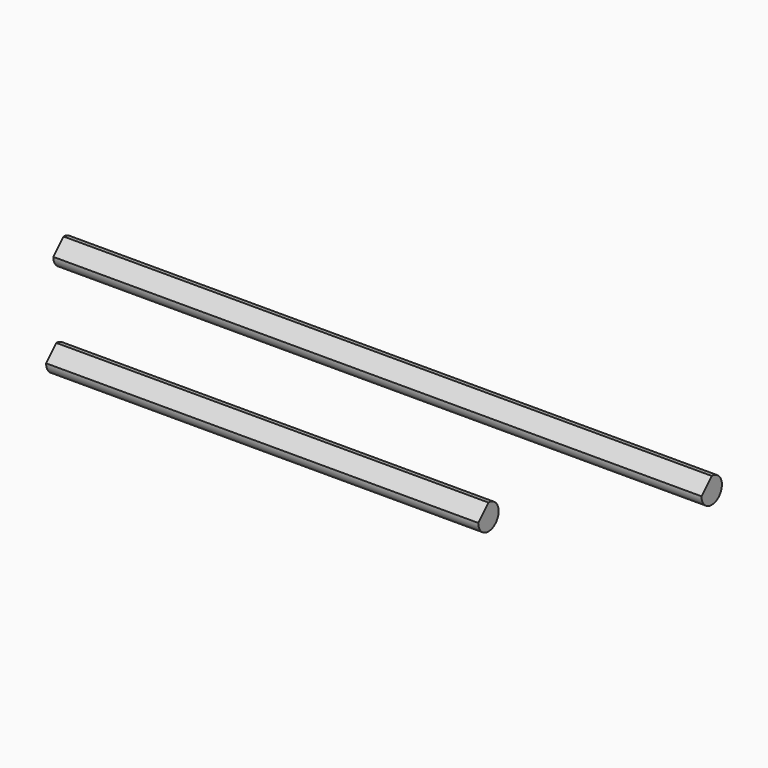
from build123d import *

# Parameters (mm, degrees)
F1_DEPTH = 57.15
F3_DEPTH = 19.05
F4_DEPTH = 19.05


with BuildPart() as f1:
    # F0 (on Right) → F1 (new body, symmetric)
    with BuildSketch(Plane.YZ):
        with BuildLine():
            ThreePointArc((-2.25, 0), (0, -2.25), (2.25, 0))
            ThreePointArc((2.25, 0), (1.5909902577, 1.5909902577), (0, 2.25))
            Line((0, 2.25), (-2.25, 0))
        make_face()
    extrude(amount=F1_DEPTH, both=True)


with BuildPart() as f2_1:
    # F2: copy of F1
    add(f1.part.moved(Location((0, -25.4, 0))))

    # F3 (cut): a face of the model
    f3_faces = [f2_1.faces().sort_by_distance(p)[0] for p in [
        (57.15, -25.2687064199, -0.1312935801),
    ]]
    extrude(f3_faces, amount=-F3_DEPTH, mode=Mode.SUBTRACT)

    # F4 (cut): a face of the model
    f4_faces = [f2_1.faces().sort_by_distance(p)[0] for p in [
        (-57.15, -25.2687064199, -0.1312935801),
    ]]
    extrude(f4_faces, amount=-F4_DEPTH, mode=Mode.SUBTRACT)


solid = Compound([f1.part, f2_1.part])
